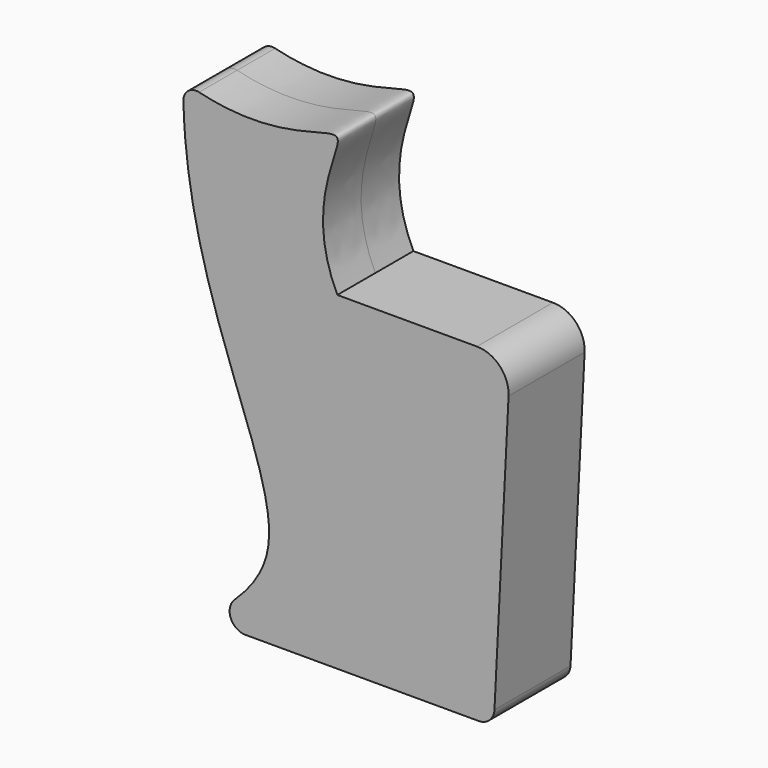
from build123d import *

# Parameters (mm, degrees)
F1_DEPTH = 19.05
F2_R     = 5.08


with BuildPart() as f1:
    # F0 (on Front) → F1 (new body, symmetric)
    with BuildSketch(Plane.XZ):
        with BuildLine():
            ThreePointArc((-41.2102176428, -56.9380209093), (-42.7262869342, -63.8945167146), (-36.8305512568, -67.8859576583))
            Line((-36.8305512568, -67.8859576583), (56.6456316932, -67.8859576583))
            ThreePointArc((56.6456316932, -67.8859576583), (61.0217420398, -66.1372790157), (62.9876442917, -61.8543539524))
            Line((62.9876442917, -61.8543539524), (68.6381038561, 50.6949640107))
            ThreePointArc((68.6381038561, 50.6949640107), (65.1567213738, 60.0839772923), (55.954078659, 64.031756599))
            Line((55.954078659, 64.031756599), (0, 64.031756599))
            add(Edge.make_bspline(
                [(0, 64.031756599), (-13.8958169074, 92.772193382), (18.9529467347, 138.9305901021), (-24.5397146791, 107.536368072), (-61.751320227, 119.3237975012)],
                knots=[0, 0, 0, 0, 0.4861927134, 1, 1, 1, 1], degree=3))
            add(Edge.make_bspline(
                [(-41.2102176428, -56.9380209093), (-35.2492907521, -51.2600673928), (-10.330751513, -19.1265381914), (-62.4997914355, 44.8085571184), (-61.751320227, 119.3237975012)],
                knots=[0.1516920821, 0.1516920821, 0.1516920821, 0.1516920821, 0.3399970952, 1, 1, 1, 1], degree=3))
        make_face()
    extrude(amount=F1_DEPTH, both=True)

    # F2
    f2_edges = [f1.edges().sort_by_distance(p)[0] for p in [
        (-61.75132, -9.525, 119.323798),
        (-61.75132, 9.525, 119.323798),
    ]]
    fillet(f2_edges, radius=F2_R)


solid = f1.part
